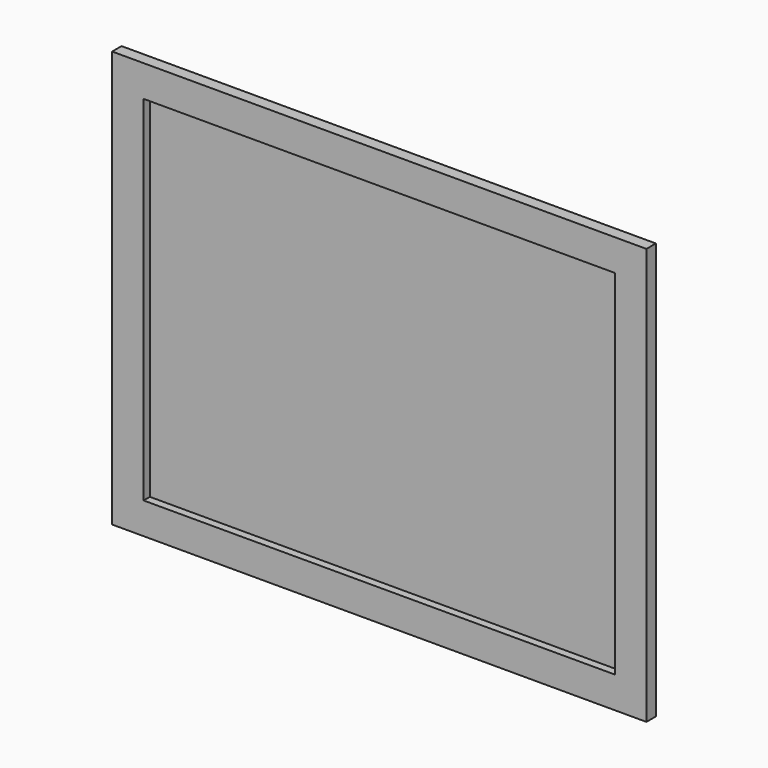
from build123d import *

# Parameters (mm, degrees)
F0_W     = 304.8
F0_H     = 228.6
F1_DEPTH = 2.54
F0_W_2   = 345.44
F0_H_2   = 269.24
F2_DEPTH = 7.62
F3_R     = 4.445
F4_DEPTH = 6.35


with BuildPart() as f1:
    # F0 (on Front) → F1 (new body)
    with BuildSketch(Plane.XZ):
        Rectangle(F0_W, F0_H)
    extrude(amount=F1_DEPTH)

    # F0 (on Front) → F2 (join)
    with BuildSketch(Plane.XZ):
        Rectangle(F0_W_2, F0_H_2)
        Rectangle(F0_W, F0_H, mode=Mode.SUBTRACT)
    extrude(amount=F2_DEPTH)

    # F3 (on Right) → F4 (join, symmetric)
    with BuildSketch(Plane.YZ):
        with BuildLine():
            Line((13.962311, 6.886105), (0, 9.260906))
            Line((0, 9.260906), (0, -6.802539))
            Line((0, -6.802539), (12.691058, -6.984284))
            ThreePointArc((12.691058, -6.984284), (5.835232, 0.63752), (13.962311, 6.886105))
        make_face()
        with BuildLine():
            ThreePointArc((19.776078, 0), (18.128272, 4.50606), (13.962311, 6.886105))
            ThreePointArc((13.962311, 6.886105), (5.835232, 0.63752), (12.691058, -6.984284))
            ThreePointArc((12.691058, -6.984284), (17.694729, -4.974378), (19.776078, 0))
        make_face()
        with Locations((12.791078, 0)):
            Circle(F3_R, mode=Mode.SUBTRACT)
    extrude(amount=F4_DEPTH, both=True)


solid = f1.part
